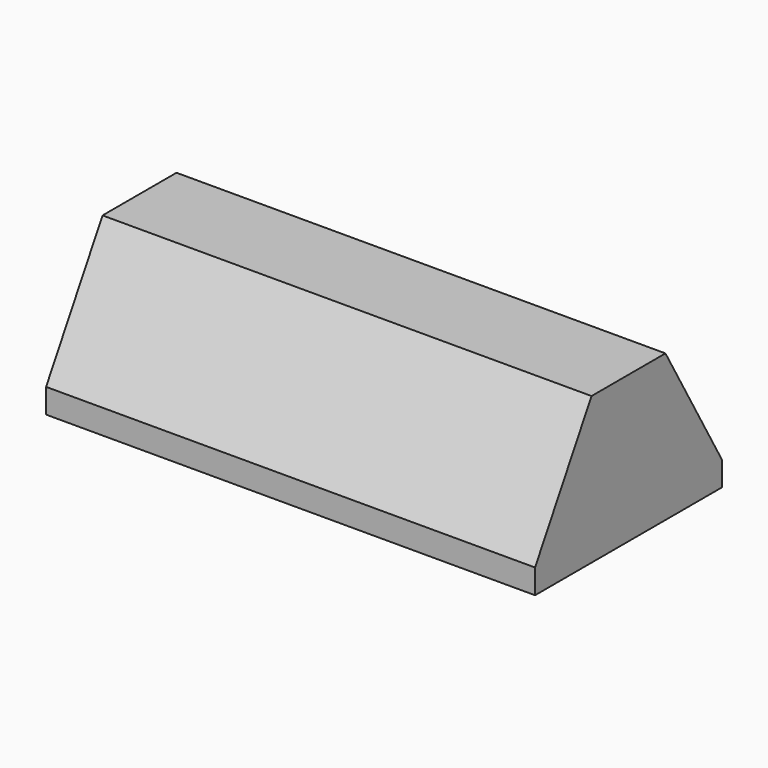
from build123d import *

# Parameters (mm, degrees)
F0_W      = 60
F0_H      = 30
F1_DEPTH  = 3
F2_W      = 15
F2_H      = 15
F3_DEPTH  = 60
F4_W      = 5
F4_H      = 15
F5_DEPTH  = 60
F7_DEPTH  = 60
F9_DEPTH  = 58
F11_DEPTH = 2
F13_DEPTH = 2
F15_DEPTH = 2
F16_W     = 1.339746
F16_H     = 3
F17_DEPTH = 60


with BuildPart() as f1:
    # F0 (on Top) → F1 (new body)
    with BuildSketch(Plane.XY):
        Rectangle(F0_W, F0_H)
    extrude(amount=F1_DEPTH)

    # F2 (on face) → F3 (join)
    with BuildSketch(Plane.YZ.offset(30)):
        with Locations((-7.5, 10.5)):
            Rectangle(F2_W, F2_H)
    extrude(amount=-F3_DEPTH)

    # F4 (on face) → F5 (join)
    with BuildSketch(Plane.YZ.offset(30)):
        with Locations((2.5, 10.5)):
            Rectangle(F4_W, F4_H)
    extrude(amount=-F5_DEPTH)

    # F6 (on face) → F7 (cut, through all)
    with BuildSketch(Plane.YZ.offset(30)):
        Polygon((-15, 18), (-15, 3), (-6.339746, 18), align=None)
    extrude(amount=-F7_DEPTH, mode=Mode.SUBTRACT)

    # F8 (on face) → F9 (cut)
    with BuildSketch(Plane(origin=(-30, 0, 0), x_dir=(0, -1, 0), z_dir=(-1, 0, 0))):
        Polygon((-5, 16), (-5, 3), (12.690599, 3), (5.185045, 16), align=None)
    extrude(amount=-F9_DEPTH, mode=Mode.SUBTRACT)

    # F10 (on face) → F11 (join)
    with BuildSketch(Plane(origin=(-30, 0, 0), x_dir=(0, -1, 0), z_dir=(-1, 0, 0))):
        Polygon((6.339746, 18), (-5, 18), (-5, 16), (5.185045, 16), (12.690599, 3), (-5, 3), (-5, 0), (15, 0), (15, 3), align=None)
        Polygon((5.185045, 16), (-5, 16), (-5, 3), (12.690599, 3), align=None)
    extrude(amount=-F11_DEPTH)

    # F12 (on face) → F13 (join)
    with BuildSketch(Plane(origin=(-30, 0, 0), x_dir=(0, -1, 0), z_dir=(-1, 0, 0))):
        Polygon((-5, 3), (-5, 18), (-13.660254, 3), align=None)
        Polygon((6.339746, 18), (-5, 18), (-5, 3), (-13.660254, 3), (-15, 3), (-15, 0), (15, 0), (15, 3), align=None)
    extrude(amount=-F13_DEPTH)

    # F14 (on face) → F15 (join)
    with BuildSketch(Plane.YZ.offset(30)):
        Polygon((5, 3), (5, 18), (-6.339746, 18), (-15, 3), (-15, 0), (15, 0), (15, 3), (13.660254, 3), align=None)
        Polygon((13.660254, 3), (5, 18), (5, 3), align=None)
    extrude(amount=-F15_DEPTH)

    # F16 (on face) → F17 (cut)
    with BuildSketch(Plane.YZ.offset(30)):
        with Locations((14.330127, 1.5)):
            Rectangle(F16_W, F16_H)
    extrude(amount=-F17_DEPTH, mode=Mode.SUBTRACT)


solid = f1.part
